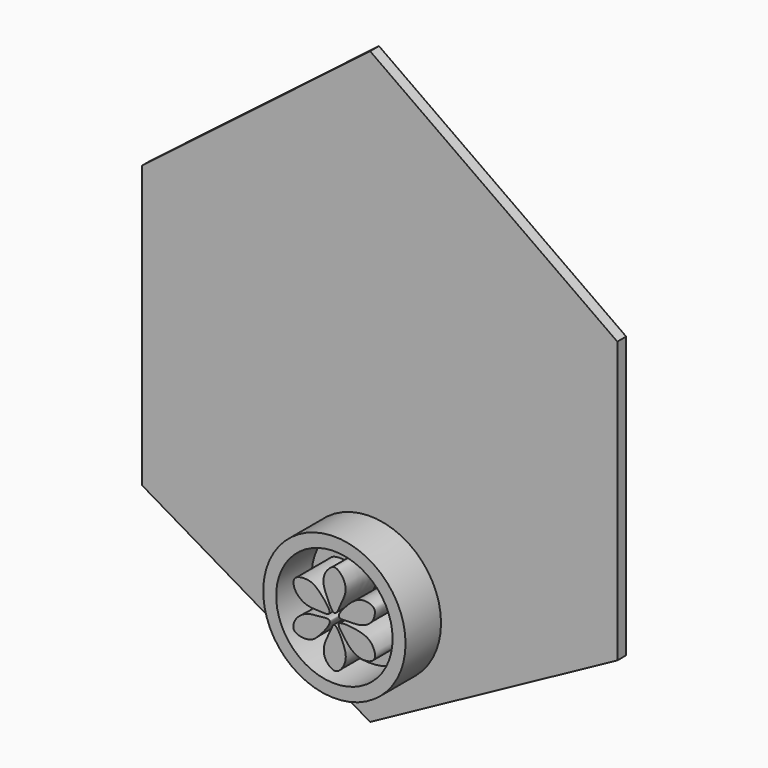
from build123d import *

# Parameters (mm, degrees)
F1_DEPTH  = 12.7
F2_DEPTH  = 2.54
F3_DEPTH  = 7.62
F4_DEPTH  = 2.54
F5_DEPTH  = 2.54
F6_DEPTH  = 2.54
F7_DEPTH  = 2.54
F8_DEPTH  = 2.54
F9_DEPTH  = 2.54
F10_R     = 16.3034877796
F10_R_2   = 13.3360453195
F11_DEPTH = 10.16


with BuildPart() as f1:
    # F0 (on Front) → F1 (new body)
    with BuildSketch(Plane.XZ):
        Polygon((59.2296272516, 26.558874175), (0, 68.5641244054), (-54.7846257687, 26.558874175), (-54.7846257687, -40.5606217682), (0, -72.7868750691), (59.2296272516, -40.5606217682), align=None)
    extrude(amount=F1_DEPTH)

    # F2 (cut): a face of the model
    f2_faces = [f1.faces().sort_by_distance(p)[0] for p in [
        (1.9587071028, -12.7, -4.2659517496),
    ]]
    extrude(f2_faces, amount=-F2_DEPTH, mode=Mode.SUBTRACT)

    # F3 (cut): a face of the model
    f3_faces = [f1.faces().sort_by_distance(p)[0] for p in [
        (1.9587071028, -10.16, -4.2659517496),
    ]]
    extrude(f3_faces, amount=-F3_DEPTH, mode=Mode.SUBTRACT)

    # F4 (cut): a face of the model
    f4_faces = [f1.faces().sort_by_distance(p)[0] for p in [
        (29.6148136258, -1.27, 47.5614992902),
    ]]
    extrude(f4_faces, amount=-F4_DEPTH, mode=Mode.SUBTRACT)

    # F5 (cut): a face of the model
    f5_faces = [f1.faces().sort_by_distance(p)[0] for p in [
        (-27.3923128843, -1.27, 47.5614992902),
    ]]
    extrude(f5_faces, amount=-F5_DEPTH, mode=Mode.SUBTRACT)

    # F6 (cut): a face of the model
    f6_faces = [f1.faces().sort_by_distance(p)[0] for p in [
        (59.2296272516, -1.27, -7.0008737966),
    ]]
    extrude(f6_faces, amount=-F6_DEPTH, mode=Mode.SUBTRACT)

    # F7 (cut): a face of the model
    f7_faces = [f1.faces().sort_by_distance(p)[0] for p in [
        (-54.7846257687, -1.27, -7.0008737966),
    ]]
    extrude(f7_faces, amount=-F7_DEPTH, mode=Mode.SUBTRACT)

    # F8 (cut): a face of the model
    f8_faces = [f1.faces().sort_by_distance(p)[0] for p in [
        (-27.3923128843, -1.27, -56.6737484187),
    ]]
    extrude(f8_faces, amount=-F8_DEPTH, mode=Mode.SUBTRACT)

    # F9 (cut): a face of the model
    f9_faces = [f1.faces().sort_by_distance(p)[0] for p in [
        (29.6148136258, -1.27, -56.6737484187),
    ]]
    extrude(f9_faces, amount=-F9_DEPTH, mode=Mode.SUBTRACT)

    # F10 (on face) → F11 (join)
    with BuildSketch(Plane.XZ.offset(2.54)):
        with Locations((0, -44.6657314897)):
            Circle(F10_R)
        with Locations((0, -44.6657314897)):
            Circle(F10_R_2, mode=Mode.SUBTRACT)
        with BuildLine():
            add(Edge.make_bspline(
                [(1.0498326737, -45.6173457205), (1.4961162946, -44.9933239627), (6.3752970069, -45.5281940166), (8.6683425025, -46.8688306892), (10.0047145229, -50.4438282707), (6.2613687821, -51.6027129589), (3.2399414147, -49.5713098231), (2.1931423362, -47.7164660276), (0.7553893328, -46.0290548727), (1.0498326737, -45.6173457205)],
                knots=[0, 0, 0, 0, 0.1806252712, 0.3247530416, 0.461603616, 0.6014149295, 0.7526073817, 0.880829352, 1, 1, 1, 1], degree=3))
        make_face()
        with BuildLine():
            add(Edge.make_bspline(
                [(0, -43.8016429543), (0.5451229226, -43.8131570736), (1.6167668414, -41.2465516118), (2.6231657093, -39.1701911527), (2.5818193267, -37.0370421169), (1.5416660309, -35.3393119862), (-0.0024608319, -34.1689302246), (-1.4843391474, -35.4003462259), (-2.4438566395, -36.7626925333), (-2.6240611577, -39.0330988064), (-1.6566450487, -41.0723830195), (-0.5604434318, -43.7898052344), (0, -43.8016429543)],
                knots=[0, 0, 0, 0, 0.1131738261, 0.2236560665, 0.3185686351, 0.4145556374, 0.5012327602, 0.5877869581, 0.6762515948, 0.7736337246, 0.8836454589, 1, 1, 1, 1], degree=3))
        make_face()
        with BuildLine():
            add(Edge.make_bspline(
                [(0, -46.2009645998), (0.5449033064, -46.2043986), (2.2391694804, -49.3955928499), (2.913251818, -52.2296052114), (1.7125927192, -54.6676599654), (-0.0390875941, -55.9540920268), (-2.6697391535, -53.6540437741), (-2.3841981624, -50.3430826085), (-0.9051153772, -48.111716018), (-0.3927890289, -46.1984892293), (0, -46.2009645998)],
                knots=[0, 0, 0, 0, 0.1437628495, 0.2812102212, 0.4019001441, 0.5025884397, 0.6308444089, 0.7649326983, 0.8963697423, 1, 1, 1, 1], degree=3))
        make_face()
        with BuildLine():
            add(Edge.make_bspline(
                [(-1.1225264752, -44.190723449), (-0.8397605595, -43.4770525622), (-3.7650692565, -40.0333889851), (-5.7759465771, -38.8708376154), (-9.7332792959, -39.146556477), (-9.2133913348, -42.6379393659), (-6.321842505, -44.4924024313), (-3.989958041, -44.426861801), (-1.337013774, -44.7320664193), (-1.1225264752, -44.190723449)],
                knots=[0, 0, 0, 0, 0.1742353804, 0.312941422, 0.4549867189, 0.5867574934, 0.7332254937, 0.8678367016, 1, 1, 1, 1], degree=3))
        make_face()
        with BuildLine():
            add(Edge.make_bspline(
                [(-1.0901030619, -45.7146167755), (-0.7871291024, -46.3547699821), (-3.6909581852, -49.9336816274), (-5.7762006099, -51.4446574823), (-10.1453199667, -50.7941282402), (-8.796073409, -47.1225897259), (-5.7993611429, -45.6570521825), (-3.7421433013, -45.7075527769), (-1.3098506765, -45.2503123832), (-1.0901030619, -45.7146167755)],
                knots=[0, 0, 0, 0, 0.173918891, 0.3181094664, 0.4638051333, 0.6010830486, 0.7473308021, 0.8738562829, 1, 1, 1, 1], degree=3))
        make_face()
        with BuildLine():
            add(Edge.make_bspline(
                [(1.0498326737, -44.190723449), (0.8182427943, -43.6442024691), (2.9747356408, -41.1491268402), (4.4899562645, -39.8311313876), (6.4602047226, -38.8263537146), (9.0141733888, -39.3962484284), (9.4404359278, -40.6851601484), (8.8268794972, -42.9971078704), (6.1901412499, -44.4984625173), (3.8131014304, -44.3962642702), (1.2503541919, -44.6639272731), (1.0498326737, -44.190723449)],
                knots=[0, 0, 0, 0, 0.1321573784, 0.243914584, 0.3487662065, 0.4596051304, 0.536909385, 0.6445139077, 0.7654190173, 0.8855718643, 1, 1, 1, 1], degree=3))
        make_face()
    extrude(amount=F11_DEPTH)


solid = f1.part
